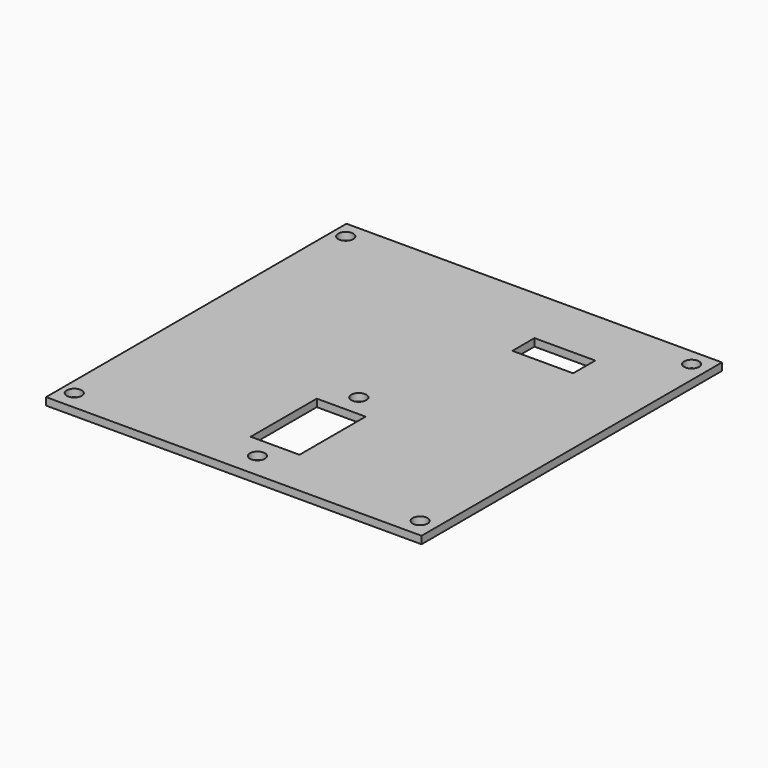
from build123d import *

# Parameters (mm, degrees)
F0_W     = 100
F0_H     = 100
F0_R     = 2
F0_W_2   = 13
F0_H_2   = 22
F0_W_3   = 16.1784952506
F0_H_3   = 7.3538627476
F1_DEPTH = 2
F2_D     = 4
F2_DEPTH = 15
F2_TIP   = 1.2017212381


with BuildPart() as f1:
    # F0 (on Top) → F1 (new body)
    with BuildSketch(Plane.XY):
        with Locations((24.3766545396, 9.4889727443)):
            Rectangle(F0_W, F0_H)
        with Locations((25.2671993673, -33.7579216361)):
            Circle(F0_R, mode=Mode.SUBTRACT)
        with Locations((25.2671993673, -16.8789608181)):
            Rectangle(F0_W_2, F0_H_2, mode=Mode.SUBTRACT)
        with Locations((25.2671993673, 0)):
            Circle(F0_R, mode=Mode.SUBTRACT)
        with Locations((45.1880805272, 40.0074942991)):
            Rectangle(F0_W_3, F0_H_3, mode=Mode.SUBTRACT)
    extrude(amount=F1_DEPTH)

    # F2
    with Locations(Plane(origin=(0, 0, 0), x_dir=(1, 0, 0), z_dir=(0, 0, -1))):
        with Locations((-22.1756645401, -54.9460881411), (69.9414474967, 35.4310135335), (69.9414474967, -54.9460881411), (-22.1756645401, 35.4310135335)):
            Hole(F2_D / 2, depth=F2_DEPTH)
            with Locations((0, 0, -(F2_DEPTH + F2_TIP / 2))):  # 118° drill point
                Cone(0, F2_D / 2, F2_TIP, mode=Mode.SUBTRACT)


solid = f1.part
